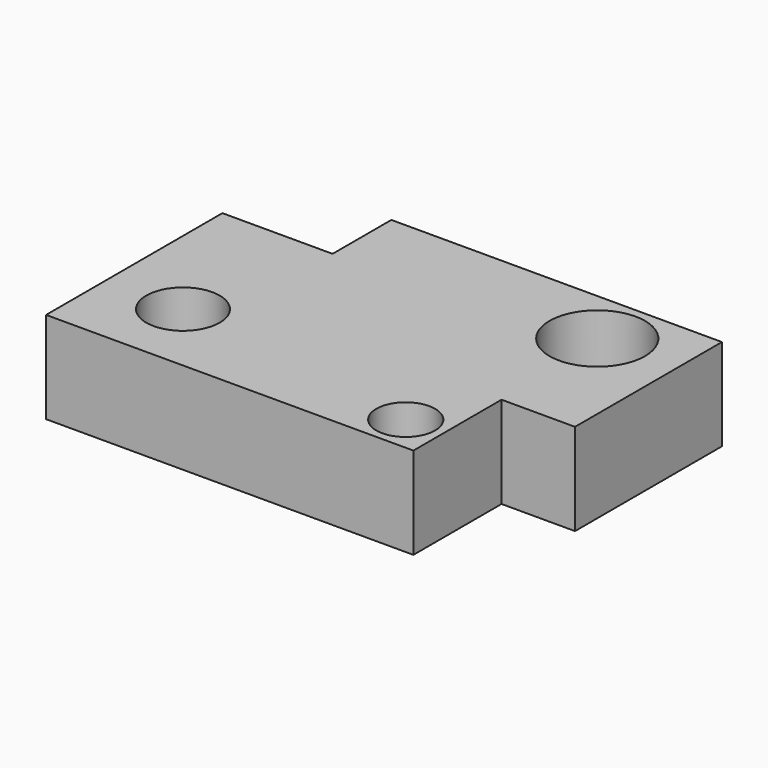
from build123d import *

# Parameters (mm, degrees)
F0_R     = 10
F0_R_2   = 8
F0_R_3   = 13
F1_DEPTH = 25


with BuildPart() as f1:
    # F0 (on Top) → F1 (new body)
    with BuildSketch(Plane.XY):
        Polygon((45.295696, 57.48656), (-44.704304, 57.48656), (-44.704304, 37.48656), (-74.704304, 37.48656), (-74.704304, -22.51344), (25.295696, -22.51344), (25.295696, 7.48656), (45.295696, 7.48656), align=None)
        with Locations((-53.636037, -2.259641)):
            Circle(F0_R, mode=Mode.SUBTRACT)
        with Locations((15.127411, -12.415974)):
            Circle(F0_R_2, mode=Mode.SUBTRACT)
        with Locations((23.587513, 42.192874)):
            Circle(F0_R_3, mode=Mode.SUBTRACT)
    extrude(amount=F1_DEPTH)


solid = f1.part
